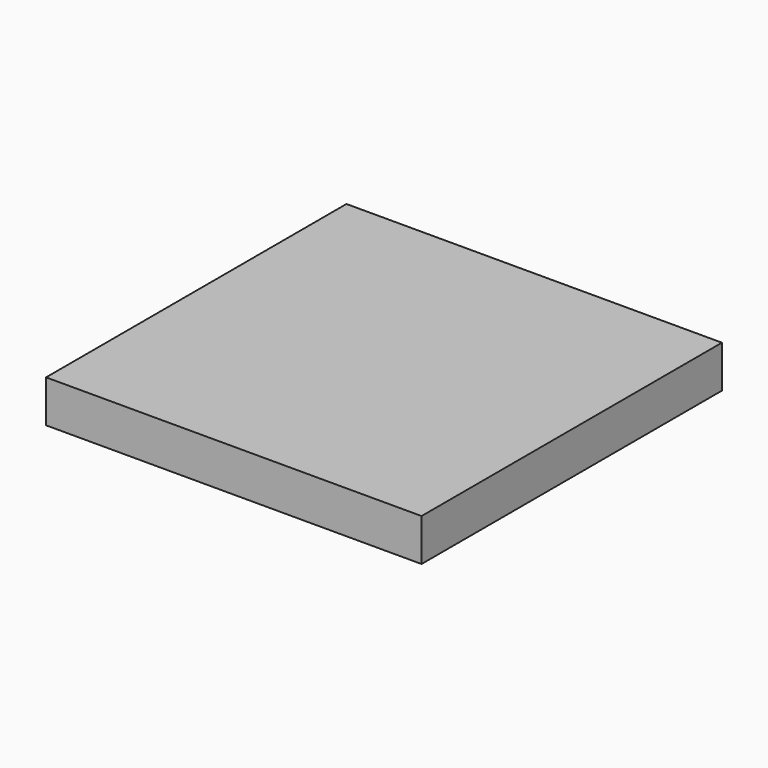
from build123d import *

# Parameters (mm, degrees)
REFINELINEAREXTRUDE_W = 80
REFINELINEAREXTRUDE_H = 80
LINEAREXTRUDE_DEPTH   = 9


with BuildPart() as part:
    # RefineLinearExtrude → LinearExtrude (new body)
    with BuildSketch(Plane(origin=(40, 0, 0), x_dir=(0, 1, 0), z_dir=(0, 0, 1))):
        Rectangle(REFINELINEAREXTRUDE_W, REFINELINEAREXTRUDE_H)
    extrude(amount=LINEAREXTRUDE_DEPTH)


solid = part.part
